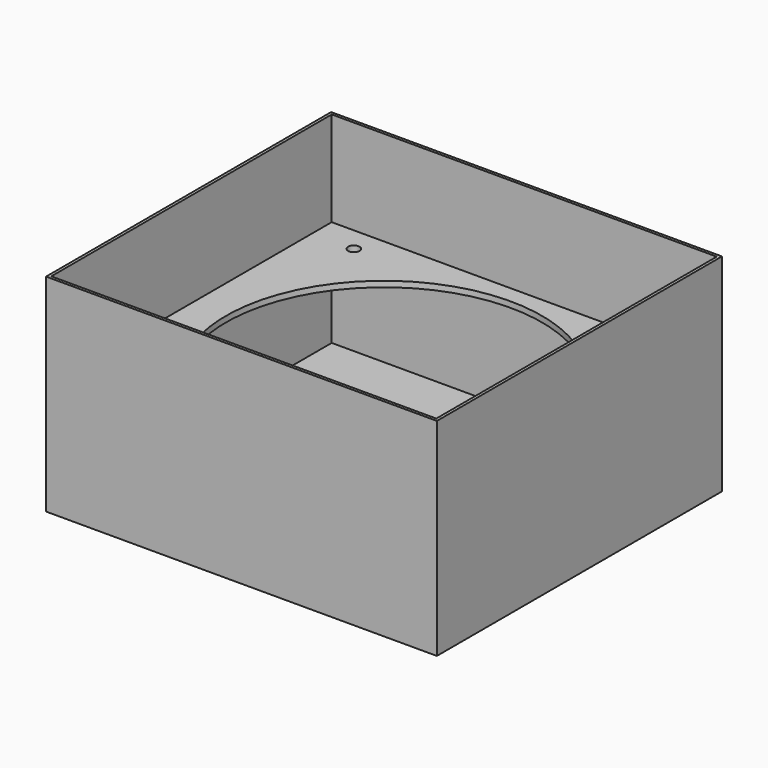
from build123d import *

# Parameters (mm, degrees)
F0_W     = 134
F0_H     = 122
F0_R     = 2
F0_R_2   = 55
F1_DEPTH = 2
F0_W_2   = 136
F0_H_2   = 124
F2_DEPTH = 35
F3_W     = 136
F3_H     = 124
F3_W_2   = 134
F3_H_2   = 122
F3_W_3   = 133.8
F3_H_3   = 47.8
F3_W_4   = 131.8
F3_H_4   = 45.8
F4_DEPTH = 2
F5_DEPTH = 5


with BuildPart() as f1:
    # F0 (on Top) → F1 (new body)
    with BuildSketch(Plane.XY):
        Rectangle(F0_W, F0_H)
        with Locations((-52.5, -52.5)):
            Circle(F0_R, mode=Mode.SUBTRACT)
        with Locations((52.5, -52.5)):
            Circle(F0_R, mode=Mode.SUBTRACT)
        with Locations((-52.5, 52.5)):
            Circle(F0_R, mode=Mode.SUBTRACT)
        Circle(F0_R_2, mode=Mode.SUBTRACT)
        with Locations((52.5, 52.5)):
            Circle(F0_R, mode=Mode.SUBTRACT)
    extrude(amount=F1_DEPTH)

    # F0 (on Top) → F2 (join, symmetric)
    with BuildSketch(Plane.XY):
        Rectangle(F0_W_2, F0_H_2)
        Rectangle(F0_W, F0_H, mode=Mode.SUBTRACT)
    extrude(amount=F2_DEPTH, both=True)

    # F3 (on face) → F4 (join)
    with BuildSketch(Plane(origin=(0, 0, -35), x_dir=(1, 0, 0), z_dir=(0, 0, -1))):
        Rectangle(F3_W, F3_H)
        Rectangle(F3_W_2, F3_H_2, mode=Mode.SUBTRACT)
        Rectangle(F3_W_2, F3_H_2)
        with Locations((0, 20)):
            Rectangle(F3_W_3, F3_H_3, mode=Mode.SUBTRACT)
        with Locations((0, 20)):
            Rectangle(F3_W_3, F3_H_3)
        with Locations((0, 20)):
            Rectangle(F3_W_4, F3_H_4, mode=Mode.SUBTRACT)
    extrude(amount=F4_DEPTH)

    # F3 (on face) → F5 (join)
    with BuildSketch(Plane(origin=(0, 0, -35), x_dir=(1, 0, 0), z_dir=(0, 0, -1))):
        with Locations((0, 20)):
            Rectangle(F3_W_3, F3_H_3)
        with Locations((0, 20)):
            Rectangle(F3_W_4, F3_H_4, mode=Mode.SUBTRACT)
    extrude(amount=-F5_DEPTH)


solid = f1.part
